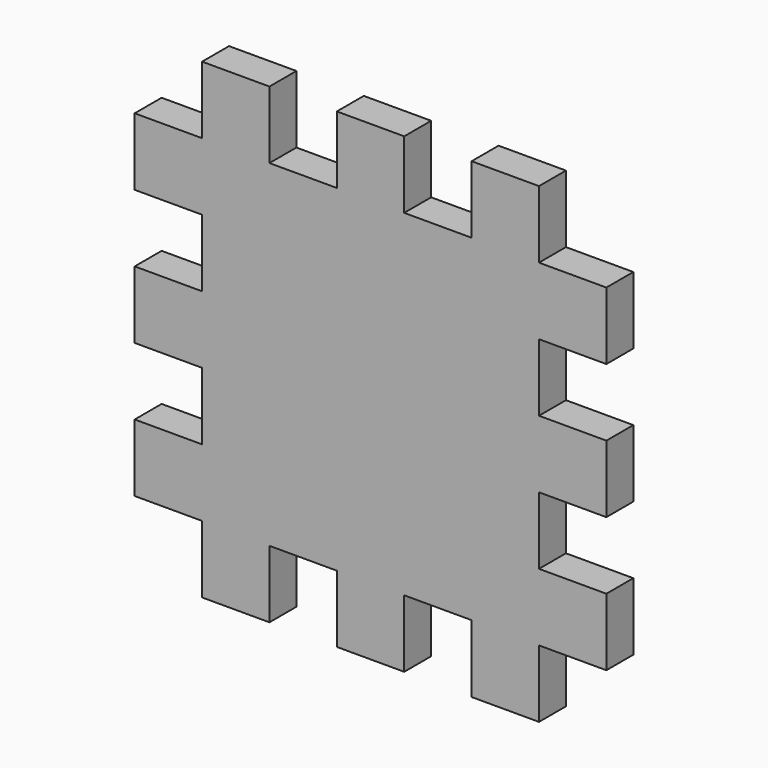
from build123d import *

# Parameters (mm, degrees)
F1_DEPTH = 6.35


with BuildPart() as f1:
    # F0 (on Front) → F1 (new body)
    with BuildSketch(Plane.XZ):
        Polygon((0, 21.010747), (0, 33.710747), (-12.7, 33.710747), (-12.7, 21.010747), (-25.4, 21.010747), (-25.4, 33.710747), (-38.1, 33.710747), (-38.1, 21.010747), (-50.8, 21.010747), (-50.8, 33.710747), (-63.5, 33.710747), (-63.5, 21.010747), (-76.2, 21.010747), (-76.2, 8.310747), (-63.5, 8.310747), (-63.5, -4.389253), (-76.2, -4.389253), (-76.2, -17.089253), (-63.5, -17.089253), (-63.5, -29.789253), (-76.2, -29.789253), (-76.2, -42.489253), (-63.5, -42.489253), (-63.5, -55.189253), (-50.8, -55.189253), (-50.8, -42.489253), (-38.1, -42.489253), (-38.1, -55.137623), (-25.4, -55.137623), (-25.4, -42.437623), (-12.7, -42.437623), (-12.7, -55.189253), (0, -55.189253), (0, -42.489253), (12.7, -42.489253), (12.7, -29.789253), (0, -29.789253), (0, -17.089253), (12.7, -17.089253), (12.7, -4.389253), (0, -4.389253), (0, 8.310747), (12.7, 8.310747), (12.7, 21.010747), align=None)
    extrude(amount=F1_DEPTH)


solid = f1.part
